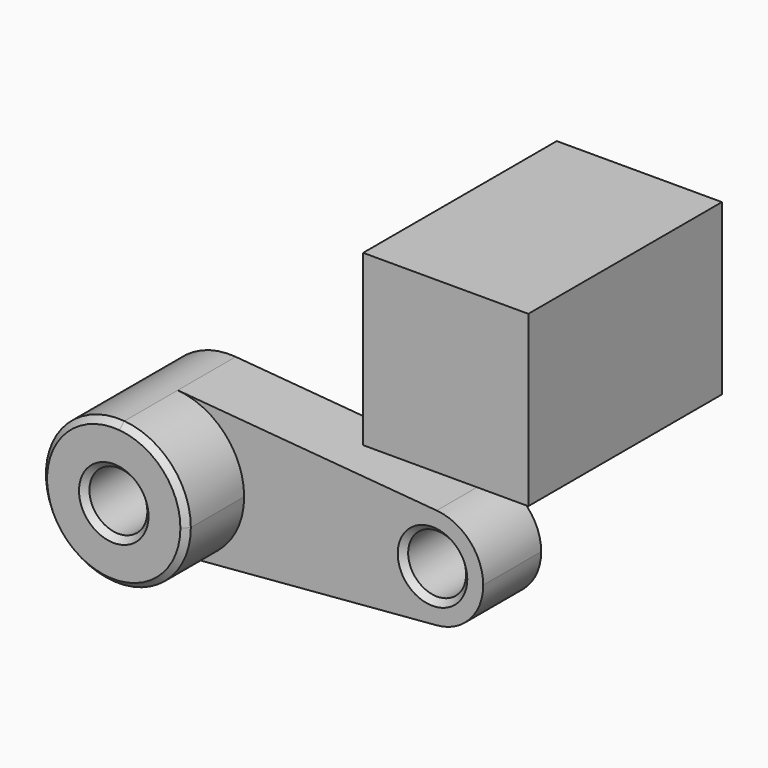
from build123d import *

# Parameters (mm, degrees)
F0_R     = 10
F1_DEPTH = 25
F2_DEPTH = 50
F3_SIZE  = 2
F4_W     = 56.994885
F4_H     = 58.440619
F5_DEPTH = 83.513869


with BuildPart() as f1:
    # F0 (on Front) → F1 (new body)
    with BuildSketch(Plane.XZ):
        with BuildLine():
            ThreePointArc((2.083333, -24.913043), (18.399502, -16.92508), (25, 0))
            ThreePointArc((25, 0), (18.399502, 16.92508), (2.083333, 24.913043))
            ThreePointArc((2.083333, 24.913043), (-25, 0), (2.083333, -24.913043))
        make_face()
        Circle(F0_R, mode=Mode.SUBTRACT)
        with BuildLine():
            ThreePointArc((2.083333, 24.913043), (18.399502, 16.92508), (25, 0))
            ThreePointArc((25, 0), (18.399502, -16.92508), (2.083333, -24.913043))
            Line((2.083333, -24.913043), (91.458333, -17.43913))
            ThreePointArc((91.458333, -17.43913), (72.5, 0), (91.458333, 17.43913))
            Line((91.458333, 17.43913), (2.083333, 24.913043))
        make_face()
        with BuildLine():
            ThreePointArc((107.5, 0), (102.879651, 11.847556), (91.458333, 17.43913))
            ThreePointArc((91.458333, 17.43913), (72.5, 0), (91.458333, -17.43913))
            ThreePointArc((91.458333, -17.43913), (102.879651, -11.847556), (107.5, 0))
        make_face()
        with Locations((90, 0)):
            Circle(F0_R, mode=Mode.SUBTRACT)
    extrude(amount=F1_DEPTH)

    # F0 (on Front) → F2 (join)
    with BuildSketch(Plane.XZ):
        with BuildLine():
            ThreePointArc((2.083333, -24.913043), (18.399502, -16.92508), (25, 0))
            ThreePointArc((25, 0), (18.399502, 16.92508), (2.083333, 24.913043))
            ThreePointArc((2.083333, 24.913043), (-25, 0), (2.083333, -24.913043))
        make_face()
        Circle(F0_R, mode=Mode.SUBTRACT)
    extrude(amount=F2_DEPTH)

    # F3
    f3_edges = [f1.edges().sort_by_distance(p)[0] for p in [
        (-2.083333, -50, 24.913043),
        (-10, -50, 0),
        (80, -25, 0),
    ]]
    chamfer(f3_edges, length=F3_SIZE)


with BuildPart() as f5:
    # F4 (on face) → F5 (new body)
    with BuildSketch(Plane.XZ):
        with Locations((141.375228, 97.265515)):
            Rectangle(F4_W, F4_H)
    extrude(amount=F5_DEPTH)


solid = Compound([f1.part, f5.part])
